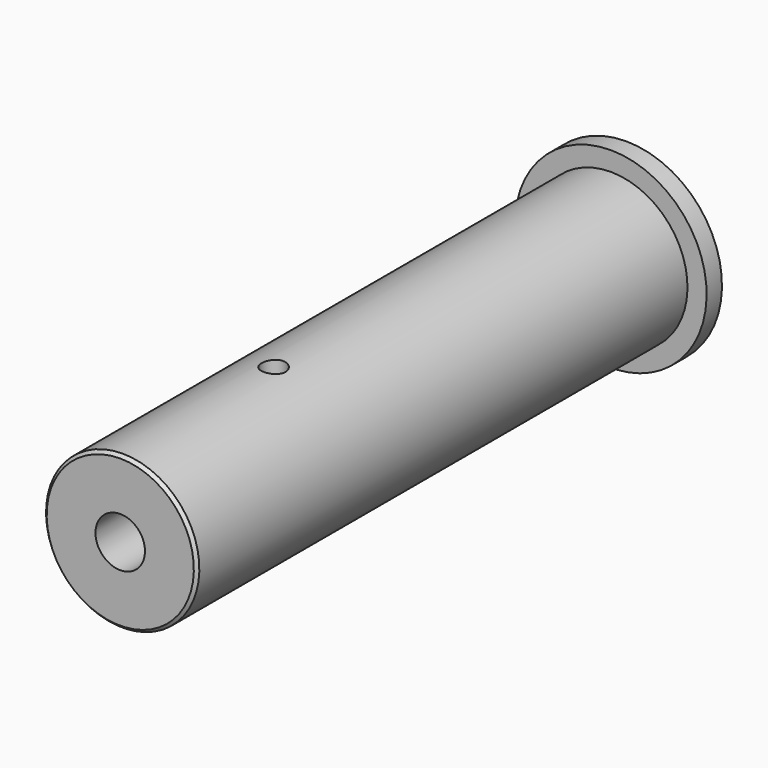
from build123d import *

# Parameters (mm, degrees)
F3_D          = 8.2042
F5_R          = 1.9812
F6_DEPTH      = 15.876
F6_DEPTH_BACK = 15.876
F7_SIZE       = 0.508


with BuildPart() as f1:
    # F0 (on Right) → F1 (revolve)
    with BuildSketch(Plane.YZ):
        Polygon((0, 11.1827357164), (-101.6, 11.1827357164), (-101.6, -1.5172642836), (-54.6817518771, -1.5172642836), (-54.6817518771, 8.0077357164), (-15.1153696949, 8.0077357164), (3.175, 9.6079357164), (3.175, 14.3577357164), (0, 14.3577357164), align=None)
    revolve(axis=Axis((0, -78.1408759385, -1.5172642836), (0, 1, 0)))

    # F3 (through all)
    with Locations(Plane.XZ.offset(101.6)):
        with Locations((0, -1.5172642836)):
            Hole(F3_D / 2)

    # F5 (on face) → F6 (cut, two sides)
    with BuildSketch(Plane(origin=(0, 0, -1.5172642836), x_dir=(1, 0, 0), z_dir=(0, 0, -1))) as f6_sk:
        with Locations((0, 69.85)):
            Circle(F5_R)
    extrude(amount=-F6_DEPTH, mode=Mode.SUBTRACT)
    extrude(f6_sk.sketch, amount=F6_DEPTH_BACK, mode=Mode.SUBTRACT)

    # F7
    f7_edges = [f1.edges().sort_by_distance(p)[0] for p in [
        (0, -101.6, -14.217264),
    ]]
    chamfer(f7_edges, length=F7_SIZE)


solid = f1.part
